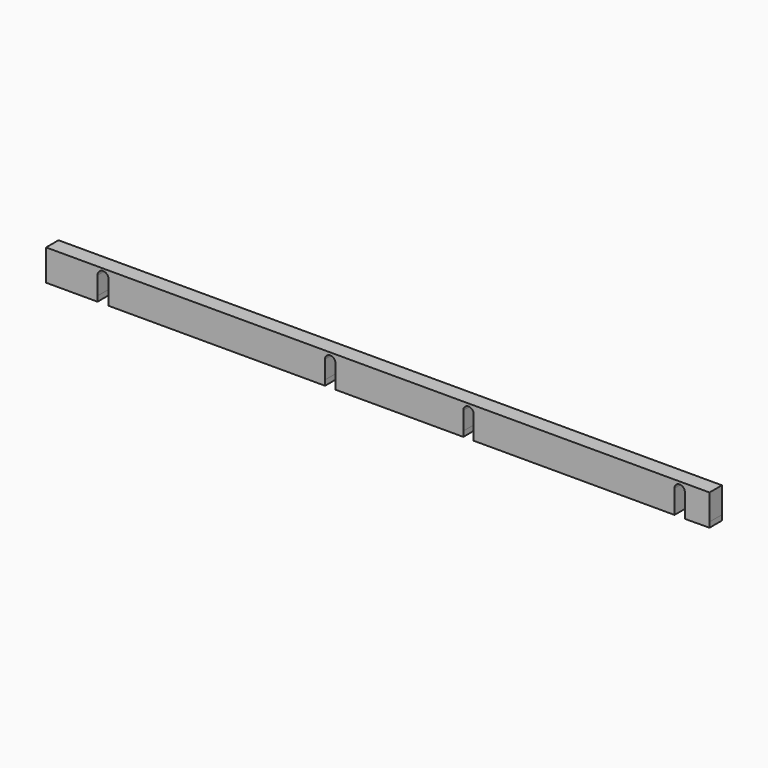
from build123d import *

# Parameters (mm, degrees)
F1_DEPTH = 19.05
F2_DEPTH = 6.35


with BuildPart() as f1:
    # F0 (on Front) → F1 (new body)
    with BuildSketch(Plane.XZ):
        with BuildLine():
            Line((411.9802786096, 0), (-400.8197213904, 0))
            Line((-400.8197213904, 0), (-400.8197213904, -31.75))
            Line((-400.8197213904, -31.75), (-337.7515673637, -31.75))
            Line((-337.7515673637, -31.75), (-337.7632062468, -9.525))
            ThreePointArc((-337.7632062468, -9.525), (-330.9552743476, -2.7170681008), (-324.1473424483, -9.525))
            Line((-324.1473424483, -9.525), (-324.1642587247, -31.7445658147))
            Line((-324.1642587247, -31.7445658147), (-59.0364138831, -31.7445658147))
            Line((-59.0364138831, -31.7445658147), (-59.040557391, -9.5579193539))
            ThreePointArc((-59.040557391, -9.5579193539), (-53.1006716645, -3.2200452284), (-46.393480585, -8.7395088525))
            Line((-46.393480585, -8.7395088525), (-46.393480585, -31.8178460419))
            Line((-46.393480585, -31.8178460419), (110.3600561619, -31.8178460419))
            Line((110.3600561619, -31.8178460419), (110.368364275, -9.525))
            ThreePointArc((110.368364275, -9.525), (116.7197256524, -3.1736386226), (123.0710870299, -9.525))
            Line((123.0710870299, -9.525), (123.0710870299, -31.8254381418))
            Line((123.0710870299, -31.8254381418), (369.150060884, -31.8254381418))
            Line((369.150060884, -31.8254381418), (369.150060884, -9.525))
            ThreePointArc((369.150060884, -9.525), (375.4822256524, -3.1928352315), (381.8143904209, -9.525))
            Line((381.8143904209, -9.525), (381.8199747045, -31.9146215908))
            Line((381.8199747045, -31.9146215908), (411.9947256524, -31.75))
            Line((411.9947256524, -31.75), (411.9802786096, 0))
        make_face()
    extrude(amount=F1_DEPTH)

    # F2 (add): faces of the model
    f2_faces = [f1.faces().sort_by_distance(p)[0] for p in [
        (-369.2856443771, -9.525, -31.75),
        (-191.6003363039, -9.525, -31.7445658147),
        (31.9832877884, -9.525, -31.8178460419),
        (246.1105739569, -9.525, -31.8254381418),
        (396.9073501785, -9.525, -31.8323107954),
    ]]
    extrude(f2_faces, amount=F2_DEPTH, dir=(0, 0, -1))


solid = f1.part
